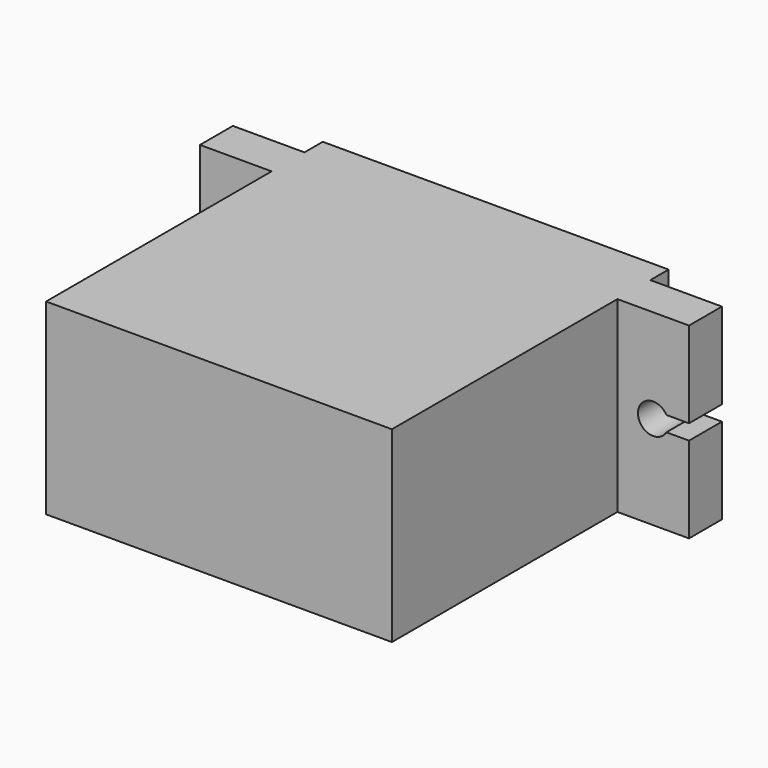
from build123d import *

# Parameters (mm, degrees)
EXTRUSION2_CUT_DEPTH = 12.3
EXTRUSION1_DEPTH     = 12.3


with BuildPart() as extrusion2_cut:
    with BuildSketch(Plane(origin=(22.7, -1.5, 0), x_dir=(1, 0, 0), z_dir=(0, 1, 0))):
        with BuildLine():
            Line((-25.916025, 6.65), (-27.4, 6.65))
            Line((-27.4, 6.65), (-27.4, 5.65))
            Line((-27.4, 5.65), (-25.916025, 5.65))
            ThreePointArc((-25.916025, 5.65), (-24.05, 6.15), (-25.916025, 6.65))
        make_face()
        with BuildLine():
            Line((3.216025, 5.65), (4.7, 5.65))
            Line((4.7, 5.65), (4.7, 6.65))
            Line((4.7, 6.65), (3.216025, 6.65))
            ThreePointArc((3.216025, 6.65), (1.35, 6.15), (3.216025, 5.65))
        make_face()
    extrude(amount=-EXTRUSION2_CUT_DEPTH)


with BuildPart() as extrusion2:
    with BuildSketch(Plane.XY):
        Polygon((22.7, -22.7), (22.7, -4.2), (27.4, -4.2), (27.4, -1.5), (22.7, -1.5), (22.7, 0), (0, 0), (0, -1.5), (-4.7, -1.5), (-4.7, -4.2), (0, -4.2), (0, -22.7), align=None)
    extrude(amount=-EXTRUSION1_DEPTH)

    # Extrusion2: cut Extrusion2_Cut
    add(extrusion2_cut.part, mode=Mode.SUBTRACT)


solid = extrusion2.part
